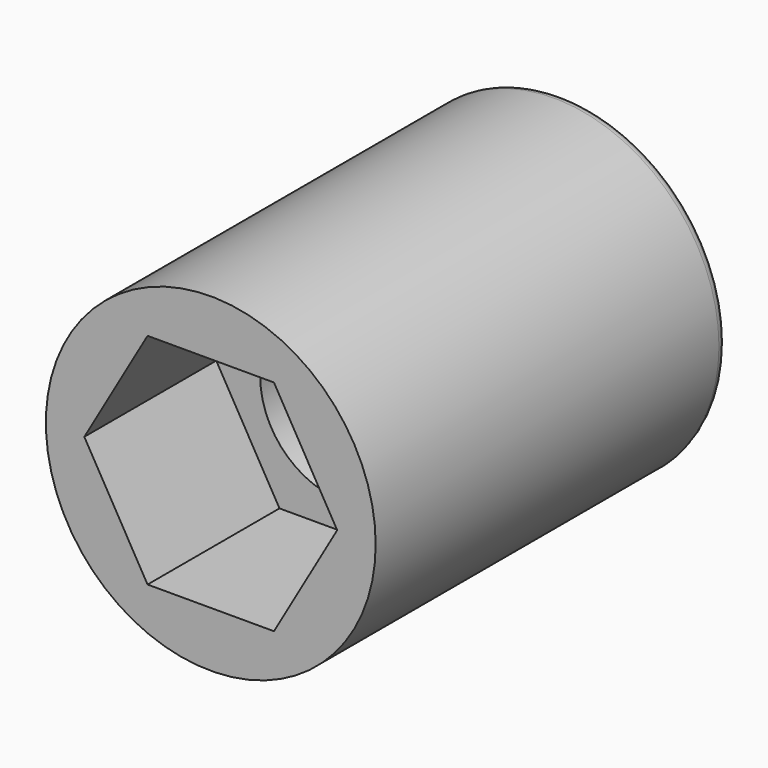
from build123d import *

# Parameters (mm, degrees)
F0_R     = 9.525
F1_DEPTH = 25.4
F3_DEPTH = 25.401
F4_DEPTH = 11.0998
F6_DEPTH = 9.525
F7_R     = 0.61321


with BuildPart() as f1:
    # F0 (on Front) → F1 (new body)
    with BuildSketch(Plane.XZ):
        Circle(F0_R)
    extrude(amount=F1_DEPTH)

    # F2 (on Front) → F3 (cut, through all)
    with BuildSketch(Plane.XZ):
        with BuildLine():
            ThreePointArc((4.7625, 0), (3.367596, 3.367596), (0, 4.7625))
            ThreePointArc((0, 4.7625), (-3.367596, 3.367596), (-4.7625, 0))
            ThreePointArc((-4.7625, 0), (-3.367596, -3.367596), (0, -4.7625))
            ThreePointArc((0, -4.7625), (3.367596, -3.367596), (4.7625, 0))
        make_face()
    extrude(amount=F3_DEPTH, mode=Mode.SUBTRACT)

    # F2 (on Front) → F4 (cut)
    with BuildSketch(Plane.XZ):
        with BuildLine():
            ThreePointArc((0, -4.7625), (-3.367596, -3.367596), (-4.7625, 0))
            Line((-4.7625, 0), (-4.7625, -4.7625))
            Line((-4.7625, -4.7625), (0, -4.7625))
        make_face()
        with BuildLine():
            ThreePointArc((-4.7625, 0), (-3.367596, 3.367596), (0, 4.7625))
            Line((0, 4.7625), (-4.7625, 4.7625))
            Line((-4.7625, 4.7625), (-4.7625, 0))
        make_face()
        with BuildLine():
            Line((4.7625, 0), (4.7625, 4.7625))
            Line((4.7625, 4.7625), (0, 4.7625))
            ThreePointArc((0, 4.7625), (3.367596, 3.367596), (4.7625, 0))
        make_face()
        with BuildLine():
            Line((4.7625, -4.7625), (4.7625, 0))
            ThreePointArc((4.7625, 0), (3.367596, -3.367596), (0, -4.7625))
            Line((0, -4.7625), (4.7625, -4.7625))
        make_face()
    extrude(amount=F4_DEPTH, mode=Mode.SUBTRACT)

    # F5 (on face) → F6 (cut)
    with BuildSketch(Plane.XZ.offset(25.4)):
        Polygon((3.65125, -6.324151), (7.3025, 0), (3.65125, 6.324151), (-3.65125, 6.324151), (-7.3025, 0), (-3.65125, -6.324151), align=None)
    extrude(amount=-F6_DEPTH, mode=Mode.SUBTRACT)

    # F7
    f7_edges = [f1.edges().sort_by_distance(p)[0] for p in [
        (-9.525, 0, 0),
    ]]
    fillet(f7_edges, radius=F7_R)


solid = f1.part
